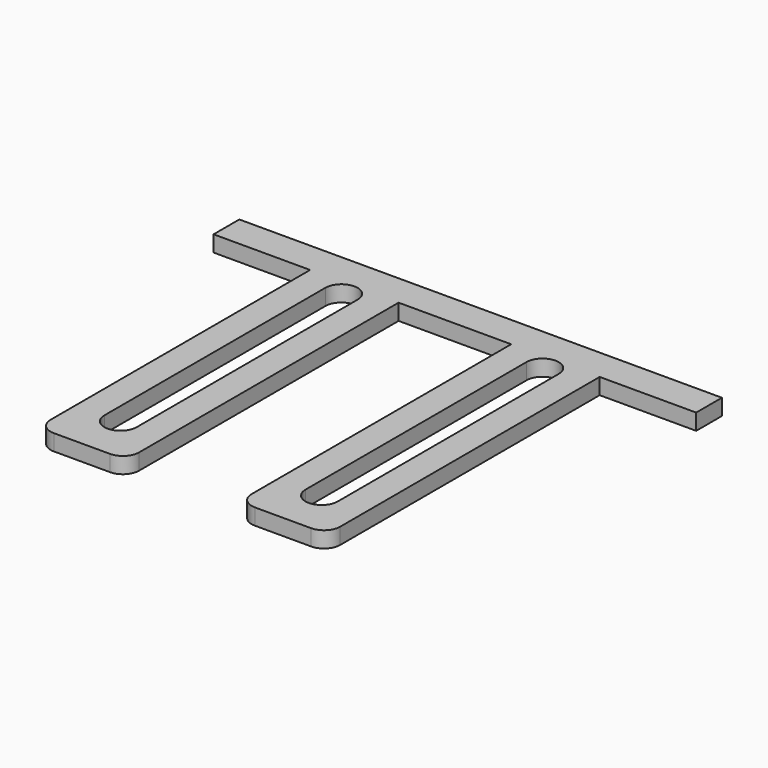
from build123d import *

# Parameters (mm, degrees)
F1_DEPTH = 1.5


with BuildPart() as f1:
    # F0 (on Top) → F1 (new body)
    with BuildSketch(Plane.XY):
        with BuildLine():
            Line((22.5, 0), (-22.5, 0))
            Line((-22.5, 0), (-22.5, -3))
            Line((-22.5, -3), (-13.5, -3))
            Line((-13.5, -3), (-13.5, -33.25))
            ThreePointArc((-13.5, -33.25), (-13.06066, -34.31066), (-12, -34.75))
            Line((-12, -34.75), (-6.75, -34.75))
            ThreePointArc((-6.75, -34.75), (-5.68934, -34.31066), (-5.25, -33.25))
            Line((-5.25, -33.25), (-5.25, -3))
            Line((-5.25, -3), (5.25, -3))
            Line((5.25, -3), (5.25, -33.25))
            ThreePointArc((5.25, -33.25), (5.68934, -34.31066), (6.75, -34.75))
            Line((6.75, -34.75), (12, -34.75))
            ThreePointArc((12, -34.75), (13.06066, -34.31066), (13.5, -33.25))
            Line((13.5, -33.25), (13.5, -3))
            Line((13.5, -3), (22.5, -3))
            Line((22.5, -3), (22.5, 0))
        make_face()
        with BuildLine():
            ThreePointArc((-10.875, -4.5), (-9.375, -3), (-7.875, -4.5))
            Line((-7.875, -4.5), (-7.875, -30.25))
            ThreePointArc((-7.875, -30.25), (-9.375, -31.75), (-10.875, -30.25))
            Line((-10.875, -30.25), (-10.875, -4.5))
        make_face(mode=Mode.SUBTRACT)
        with BuildLine():
            ThreePointArc((7.875, -4.5), (9.375, -3), (10.875, -4.5))
            Line((10.875, -4.5), (10.875, -30.25))
            ThreePointArc((10.875, -30.25), (9.375, -31.75), (7.875, -30.25))
            Line((7.875, -30.25), (7.875, -4.5))
        make_face(mode=Mode.SUBTRACT)
    extrude(amount=F1_DEPTH)


solid = f1.part
